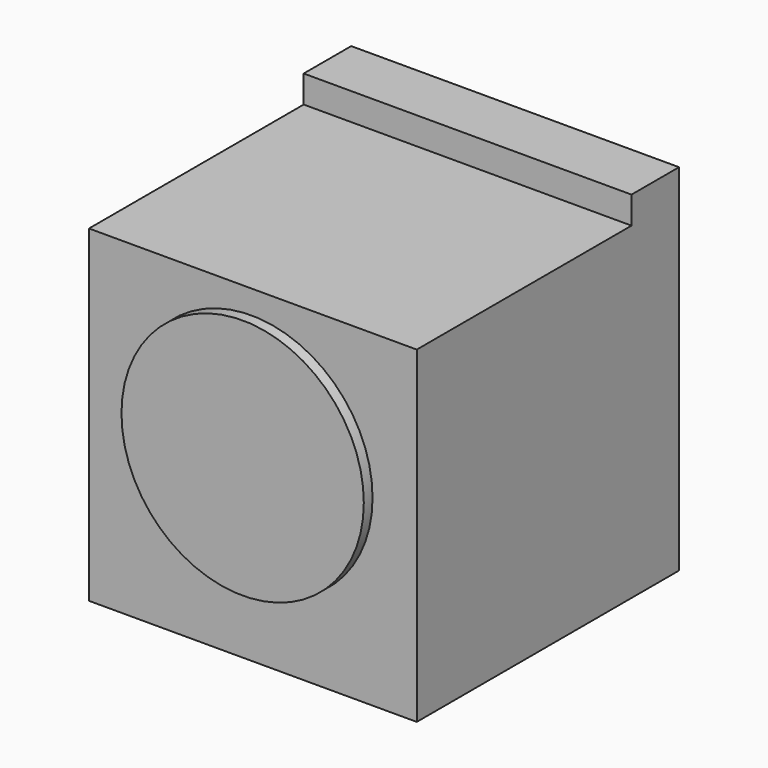
from build123d import *

# Parameters (mm, degrees)
F0_W     = 914.4
F0_H     = 914.4
F1_DEPTH = 914.4
F2_W     = 914.4
F2_H     = 165.717466
F3_DEPTH = 76.2
F4_R     = 337.986579
F5_DEPTH = 30.48


with BuildPart() as f1:
    # F0 (on Top) → F1 (new body)
    with BuildSketch(Plane.XY):
        with Locations((4.173182, 88.613961)):
            Rectangle(F0_W, F0_H)
    extrude(amount=F1_DEPTH)

    # F2 (on face) → F3 (join)
    with BuildSketch(Plane.XY.offset(914.4)):
        with Locations((4.173182, 462.955228)):
            Rectangle(F2_W, F2_H)
    extrude(amount=F3_DEPTH)

    # F4 (on face) → F5 (join)
    with BuildSketch(Plane.XZ.offset(368.586039)):
        with Locations((0, 510.469079)):
            Circle(F4_R)
    extrude(amount=F5_DEPTH)


solid = f1.part
